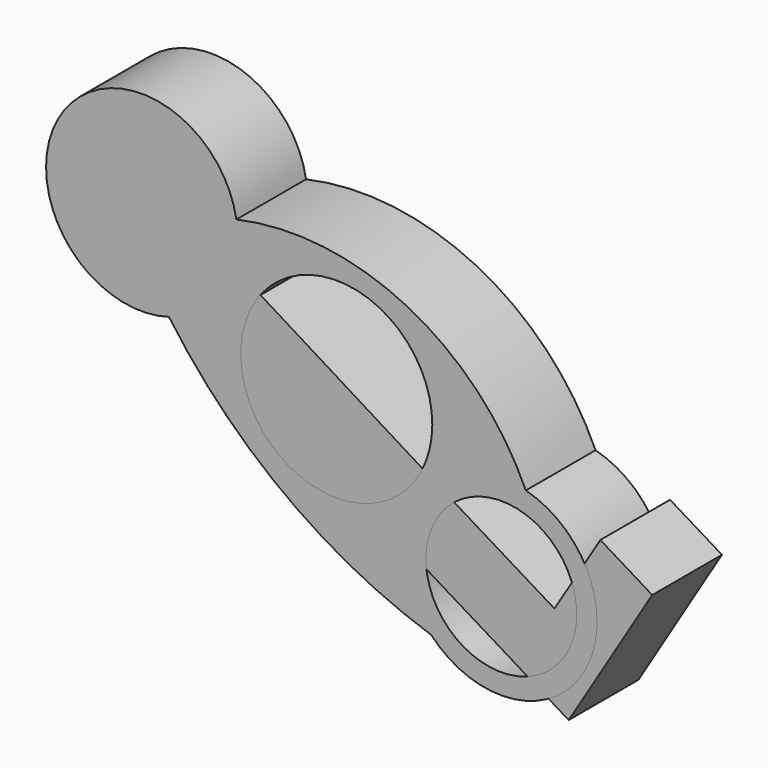
from build123d import *

# Parameters (mm, degrees)
F2_DEPTH = 12.7
F1_R     = 13.97
F1_R_2   = 10.9982


with BuildPart() as f2:
    # F0 (on Front) → F2 (new body)
    with BuildSketch(Plane.XZ):
        with BuildLine():
            ThreePointArc((-14.6047199117, -1.976578188), (-7.6618700473, -12.5896962795), (4.9546424123, -13.8800656914))
            Line((4.9546424123, -13.8800656914), (-14.6047199117, -1.976578188))
        make_face()
        with BuildLine():
            ThreePointArc((13.2132206337, -6.528055263), (9.7995319403, -11.0079007437), (4.9546424123, -13.8800656914))
            Line((4.9546424123, -13.8800656914), (33.856634211, -31.469314896))
            Line((33.856634211, -31.469314896), (46.0419560348, -11.446853032))
            Line((46.0419560348, -11.446853032), (38.475157361, -6.84183105))
            Line((38.475157361, -6.84183105), (31.7869223654, -17.8316868842))
            Line((31.7869223654, -17.8316868842), (13.2132206337, -6.528055263))
        make_face()
        with BuildLine():
            Line((-14.6047199117, -1.976578188), (4.9546424123, -13.8800656914))
            ThreePointArc((4.9546424123, -13.8800656914), (9.7995319403, -11.0079007437), (13.2132206337, -6.528055263))
            Line((13.2132206337, -6.528055263), (-11.7466976447, 8.9005505154))
            ThreePointArc((-11.7466976447, 8.9005505154), (-14.2540269403, 3.7453198819), (-14.6047199117, -1.976578188))
        make_face()
    extrude(amount=F2_DEPTH)


with BuildPart() as f2b:
    # F1 (on Front) → F2, piece 2 (new body)
    with BuildSketch(Plane.XZ):
        with BuildLine():
            ThreePointArc((-14.5970417573, 17.0351092838), (-14.4535730538, 15.8867835628), (-14.4056405115, 14.7305233404))
            ThreePointArc((-14.4056405115, 14.7305233404), (-17.1865077148, 6.3660623741), (-24.4219908705, 1.3316594141))
            ThreePointArc((-24.4219908705, 1.3316594141), (-7.5727892853, -15.9254305951), (13.8236626529, -27.05622545))
            ThreePointArc((13.8236626529, -27.05622545), (12.0471391185, -10.3469074291), (27.6131346419, -4.0178373585))
            ThreePointArc((27.6131346419, -4.0178373585), (10.2493114705, 14.0096979032), (-14.5970417573, 17.0351092838))
        make_face()
        Circle(F1_R, mode=Mode.SUBTRACT)
        with BuildLine():
            ThreePointArc((38.004012109, -17.5215695053), (35.1056254012, -9.0021634751), (27.6131346419, -4.0178373585))
            ThreePointArc((27.6131346419, -4.0178373585), (12.0471391185, -10.3469074291), (13.8236626529, -27.05622545))
            ThreePointArc((13.8236626529, -27.05622545), (29.158576388, -30.517712816), (38.004012109, -17.5215695053))
        make_face()
        with Locations((24.034012109, -17.5215695053)):
            Circle(F1_R_2, mode=Mode.SUBTRACT)
        with BuildLine():
            ThreePointArc((-24.4219908705, 1.3316594141), (-17.1865077148, 6.3660623741), (-14.4056405115, 14.7305233404))
            ThreePointArc((-14.4056405115, 14.7305233404), (-14.4535730538, 15.8867835628), (-14.5970417573, 17.0351092838))
            ThreePointArc((-14.5970417573, 17.0351092838), (-40.2186866881, 22.1401898147), (-24.4219908705, 1.3316594141))
        make_face()
        with Locations((-28.3756405115, 14.7305233404)):
            Circle(F1_R_2, mode=Mode.SUBTRACT)
        with Locations((-28.3756405115, 14.7305233404)):
            Circle(F1_R_2)
    extrude(amount=F2_DEPTH)


solid = Compound([f2.part, f2b.part])
